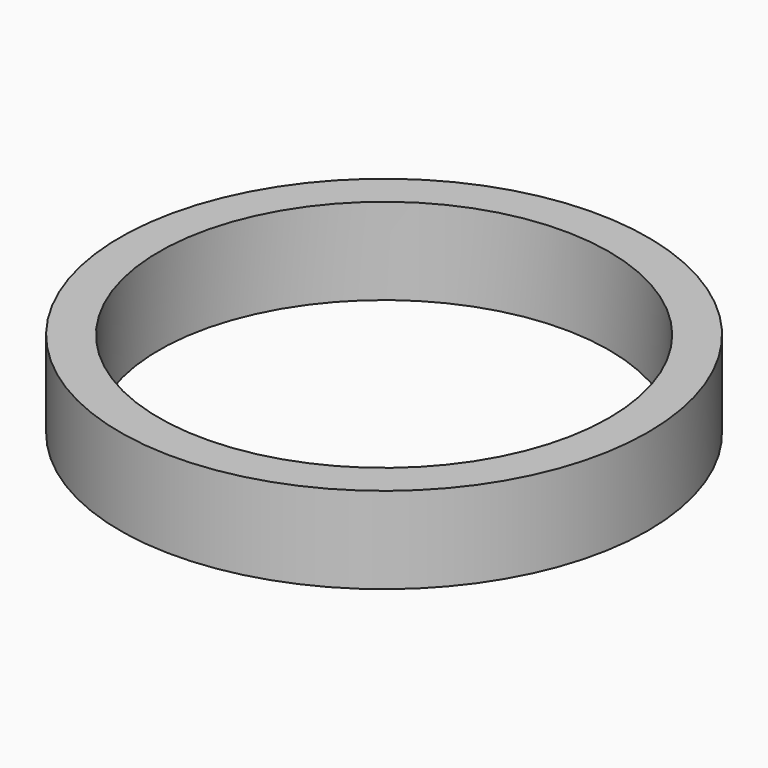
from build123d import *

# Parameters (mm, degrees)
F0_R     = 40
F0_R_2   = 35.5
F1_DEPTH = 10
F0_R_3   = 30.5
F0_R_4   = 26


with BuildPart() as f1:
    # F0 (on Top) → F1 (new body)
    with BuildSketch(Plane.XY):
        Circle(F0_R)
        Circle(F0_R_2, mode=Mode.SUBTRACT)
    extrude(amount=F1_DEPTH)


with BuildPart() as f1b:
    # F0 (on Top) → F1, piece 2 (new body)
    with BuildSketch(Plane.XY):
        Circle(F0_R_3)
        Circle(F0_R_4, mode=Mode.SUBTRACT)
    extrude(amount=F1_DEPTH)


solid = f1b.part
